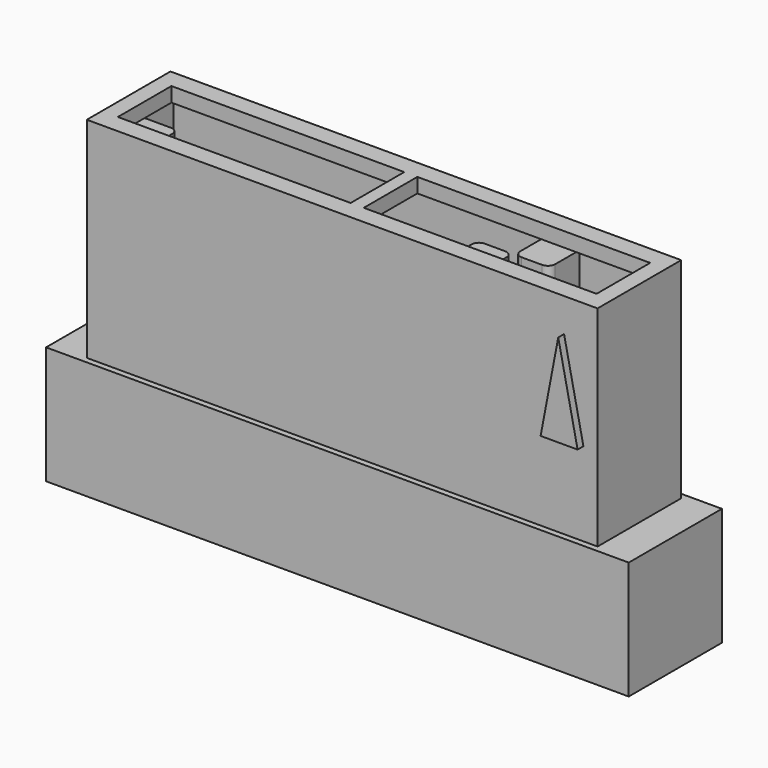
from build123d import *

# Parameters (mm, degrees)
PAD_DEPTH     = 7.5
SKETCH002_W   = 34
SKETCH002_H   = 6.8
PAD001_DEPTH  = 0.6
SKETCH001_W   = 35.08
SKETCH001_H   = 7.18
PAD002_DEPTH  = 14
PAD003_DEPTH  = 0.5
PAD004_DEPTH  = 0.5
SKETCH005_W   = 35.08
SKETCH005_H   = 7.18
SKETCH005_W_2 = 15.99
SKETCH005_H_2 = 4.6
PAD005_DEPTH  = 1
POCKET_DEPTH  = 16.5


with BuildPart() as part:
    # Sketch → Pad (new body)
    with BuildSketch(Plane.XY):
        Polygon((-20.01, 4), (-3.25, 4), (-3.25, 5), (3.25, 5), (3.25, 4), (20.01, 4), (20.01, -4), (-20.01, -4), align=None)
        Polygon((-19.01, 3), (-2.25, 3), (-2.25, 4), (2.25, 4), (2.25, 3), (19.01, 3), (19.01, -3), (-19.01, -3), align=None, mode=Mode.SUBTRACT)
    extrude(amount=-PAD_DEPTH)

    # Sketch002 → Pad001 (join)
    with BuildSketch(Plane.XY):
        Polygon((-20.01, 4), (-20.01, -4), (20.01, -4), (20.01, 4), (3.25, 4), (3.25, 5), (-3.25, 5), (-3.25, 4), align=None)
        Rectangle(SKETCH002_W, SKETCH002_H, mode=Mode.SUBTRACT)
    extrude(amount=PAD001_DEPTH)

    # Sketch001 → Pad002 (join)
    with BuildSketch(Plane.XY):
        Rectangle(SKETCH001_W, SKETCH001_H)
        with BuildLine():
            Line((16.54, 2.59), (16.54, -2.59))
            Line((16.54, -2.59), (8.82, -2.59))
            Line((8.82, -0.5), (8.82, -2.59))
            ThreePointArc((8.82, -0.5), (8.673553, -0.146447), (8.32, 0))
            Line((6.92, 0), (8.32, 0))
            ThreePointArc((6.92, 0), (6.566447, -0.146447), (6.42, -0.5))
            Line((6.42, -2.59), (6.42, -0.5))
            Line((6.42, -2.59), (-14.14, -2.59))
            Line((-14.14, -2.59), (-14.14, -0.5))
            ThreePointArc((-14.14, -0.5), (-14.286447, -0.146447), (-14.64, 0))
            Line((-14.64, 0), (-16.54, 0))
            Line((-16.54, 0), (-16.54, 2.59))
            Line((-16.54, 2.59), (8.96, 2.59))
            Line((8.96, 0.5), (8.96, 2.59))
            ThreePointArc((8.96, 0.5), (9.106447, 0.146447), (9.46, 0))
            Line((10.86, 0), (9.46, 0))
            ThreePointArc((10.86, 0), (11.213553, 0.146447), (11.36, 0.5))
            Line((11.36, 2.59), (11.36, 0.5))
            Line((11.36, 2.59), (16.54, 2.59))
        make_face(mode=Mode.SUBTRACT)
    extrude(amount=PAD002_DEPTH)

    # Sketch003 (on Face1 of Pad) → Pad003 (join)
    with BuildSketch(Plane(origin=(0, 4, 0), x_dir=(-1, 0, 0), z_dir=(0, 1, 0))):
        Polygon((15, -6), (16.5, -1.5), (13.5, -1.5), align=None)
    extrude(amount=PAD003_DEPTH)

    # Sketch004 (on Face33 of Pad003) → Pad004 (join)
    with BuildSketch(Plane.XZ.offset(3.59)):
        Polygon((16.568533, 6.35), (15.24, 12.7), (14.028533, 6.35), align=None)
    extrude(amount=PAD004_DEPTH)

    # Sketch005 → Pad005 (join)
    with BuildSketch(Plane.XY.offset(14)):
        Rectangle(SKETCH005_W, SKETCH005_H)
        with Locations((-8.445, 0)):
            Rectangle(SKETCH005_W_2, SKETCH005_H_2, mode=Mode.SUBTRACT)
        with Locations((8.445, 0)):
            Rectangle(SKETCH005_W_2, SKETCH005_H_2, mode=Mode.SUBTRACT)
    extrude(amount=PAD005_DEPTH)

    # Sketch006 → Pocket (cut, symmetric)
    with BuildSketch(Plane.YZ):
        Polygon((-3, 0), (-3, -1), (3, -1), (3, 0), (0, 3), align=None)
    extrude(amount=POCKET_DEPTH, both=True, mode=Mode.SUBTRACT)


solid = part.part
